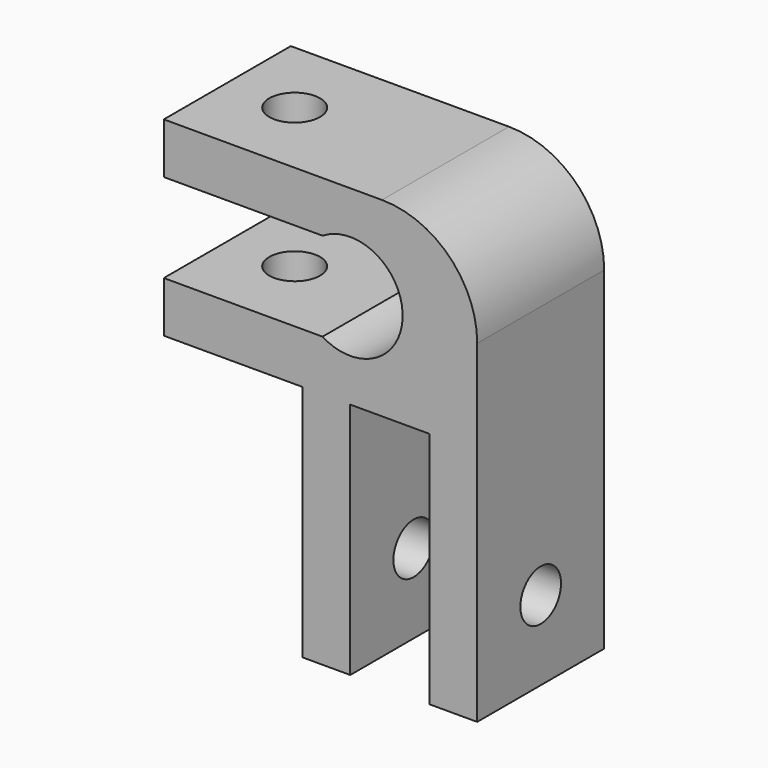
from build123d import *

# Parameters (mm, degrees)
PAD_DEPTH            = 10
SKETCH005_R          = 1.6
POCKET001_DEPTH      = 6.001
POCKET001_DEPTH_BACK = -6.001
SKETCH_W             = 3
SKETCH_H             = 15
PAD001_DEPTH         = 10
SKETCH006_R          = 1.6
POCKET_DEPTH         = 8.001
POCKET_DEPTH_BACK    = 11.747425


with BuildPart() as part:
    # Sketch003 → Pad (new body)
    with BuildSketch(Plane.XZ):
        with BuildLine():
            Line((8, -6), (-11.746425, -6))
            Line((-11.746425, -2.8), (-11.746425, -6))
            Line((-1.746425, -2.8), (-11.746425, -2.8))
            ThreePointArc((-1.746425, -2.8), (3.3, 0), (-1.746425, 2.8))
            Line((-1.746425, 2.8), (-11.746425, 2.8))
            Line((-11.746425, 2.8), (-11.746425, 6))
            Line((2, 6), (-11.746425, 6))
            ThreePointArc((8, 0), (6.242641, 4.242641), (2, 6))
            Line((8, 0), (8, -6))
        make_face()
    extrude(amount=PAD_DEPTH)

    # Sketch005 → Pocket001 (cut, two sides)
    with BuildSketch(Plane.XY) as pocket001_sk:
        with Locations((-7.5, -5)):
            Circle(SKETCH005_R)
    extrude(amount=-POCKET001_DEPTH, mode=Mode.SUBTRACT)
    extrude(pocket001_sk.sketch, amount=-POCKET001_DEPTH_BACK, mode=Mode.SUBTRACT)

    # Sketch → Pad001 (join)
    with BuildSketch(Plane.XZ):
        with Locations((6.5, -13.5)):
            Rectangle(SKETCH_W, SKETCH_H)
        with Locations((-1.5, -13.5)):
            Rectangle(SKETCH_W, SKETCH_H)
    extrude(amount=PAD001_DEPTH)

    # Sketch006 → Pocket (cut, two sides)
    with BuildSketch(Plane.YZ) as pocket_sk:
        with Locations((-5, -16)):
            Circle(SKETCH006_R)
    extrude(amount=POCKET_DEPTH, mode=Mode.SUBTRACT)
    extrude(pocket_sk.sketch, amount=-POCKET_DEPTH_BACK, mode=Mode.SUBTRACT)


solid = part.part
